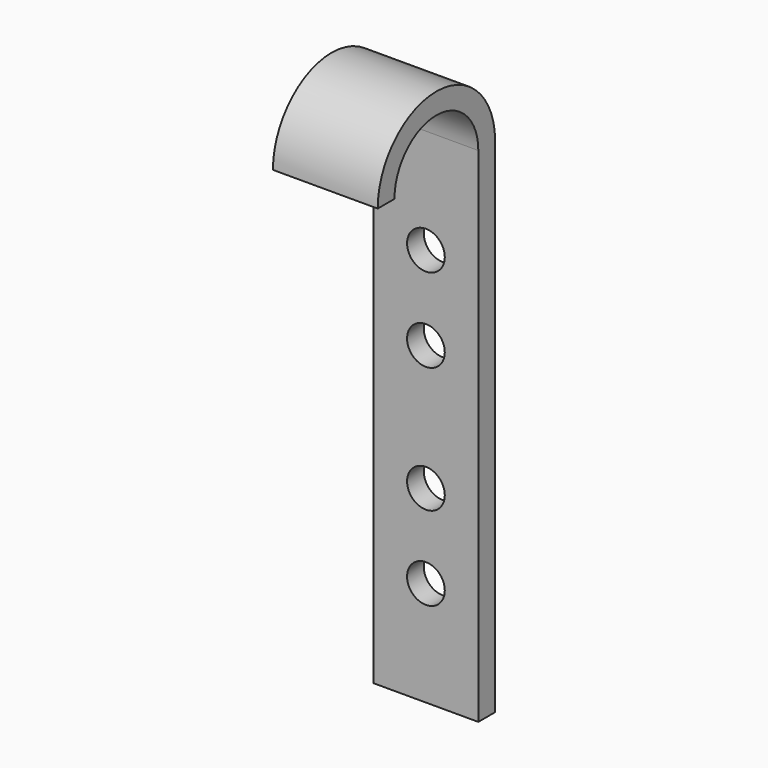
from build123d import *

# Parameters (mm, degrees)
F2_DEPTH = 25
F4_D     = 9
F6_D     = 9


with BuildPart() as f2:
    # F1 (on offset) → F2 (new body)
    with BuildSketch(Plane.YZ.offset(60)):
        with BuildLine():
            ThreePointArc((-12.5, 0), (0, 12.5), (12.5, 0))
            Line((12.5, 0), (12.5, -120))
            Line((12.5, -120), (17.5, -120))
            Line((17.5, -120), (17.5, 0))
            ThreePointArc((17.5, 0), (0, 17.5), (-17.5, 0))
            Line((-17.5, 0), (-12.5, 0))
        make_face()
    extrude(amount=-F2_DEPTH)

    # F4 (through all)
    with Locations(Plane(origin=(0, 17.5, 0), x_dir=(-1, 0, 0), z_dir=(0, 1, 0))):
        with Locations((-47.5, -25), (-47.5, -45)):
            Hole(F4_D / 2)

    # F6 (through all)
    with Locations(Plane(origin=(0, 17.5, 0), x_dir=(-1, 0, 0), z_dir=(0, 1, 0))):
        with Locations((-47.5, -75), (-47.5, -95)):
            Hole(F6_D / 2)


solid = f2.part
